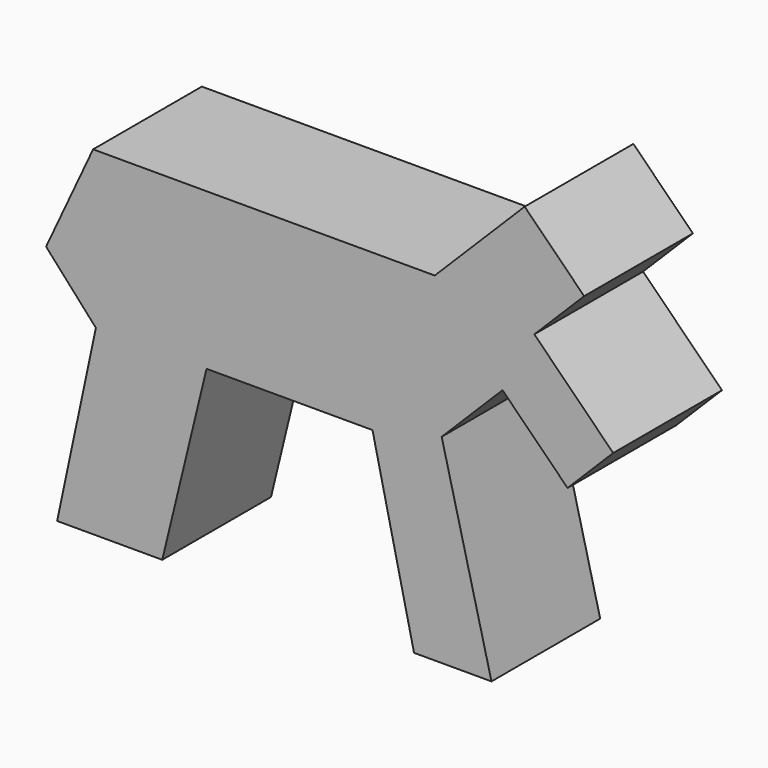
from build123d import *

# Parameters (mm, degrees)
F1_DEPTH = 12.7


with BuildPart() as f1:
    # F0 (on Front) → F1 (new body)
    with BuildSketch(Plane.XZ):
        Polygon((-44.076592, 15.640082), (-47.695786, -1.421825), (-37.872262, -1.421825), (-33.736043, 15.640082), (-18.225219, 15.640082), (-14.347512, -1.421825), (-7.109127, -1.421825), (-11.762376, 17.191162), (-6.075073, 22.878464), (-1e-06, 16.803391), (4.265479, 21.068871), (-3.102162, 28.436514), (1.551083, 33.089758), (-4.006961, 38.647804), (-12.408661, 30.246106), (-44.335105, 30.246106), (-48.729841, 20.810356), align=None)
    extrude(amount=F1_DEPTH)


solid = f1.part
